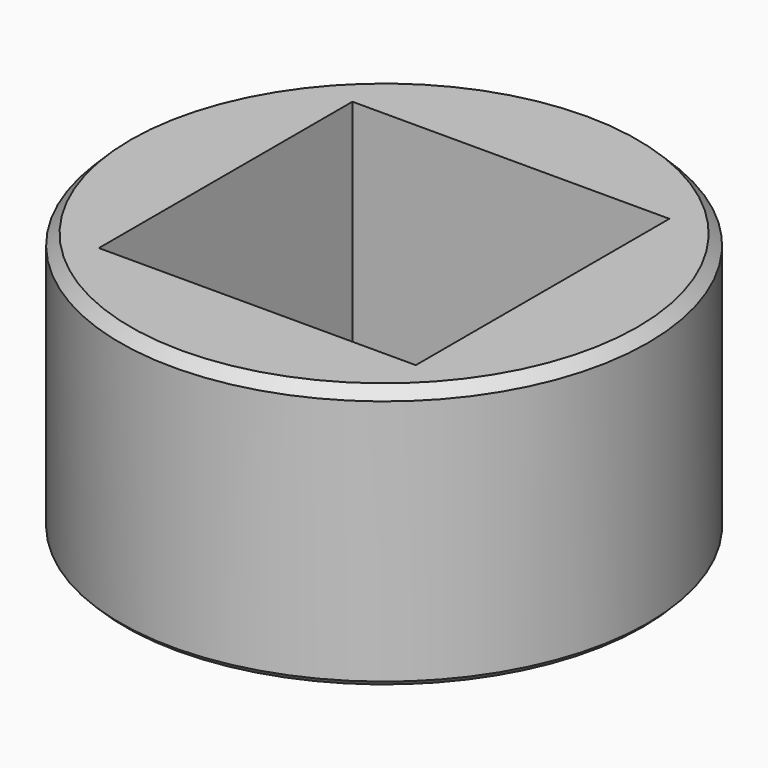
from build123d import *

# Parameters (mm, degrees)
BOX717_W           = 30.2
BOX717_H           = 30.2
BOX717_DEPTH       = 25
CYLINDER1805_R     = 25.15
CYLINDER1805_DEPTH = 25
CHAMFER067_SIZE    = 0.5
CHAMFER066_SIZE    = 1
CHAMFER068_SIZE    = 0.5


with BuildPart() as krychle717:
    # Box717 → Box717 (new body)
    with BuildSketch(Plane(origin=(-15.1, -15.1, 0), x_dir=(1, 0, 0), z_dir=(0, 0, 1))):
        with Locations((15.1, 15.1)):
            Rectangle(BOX717_W, BOX717_H)
    extrude(amount=BOX717_DEPTH)


with BuildPart() as chamfer068:
    # Cylinder1805 → Cylinder1805 (new body)
    with BuildSketch(Plane.XY):
        Circle(CYLINDER1805_R)
    extrude(amount=CYLINDER1805_DEPTH)

    # Cut531: cut Krychle717
    add(krychle717.part, mode=Mode.SUBTRACT)

    # Chamfer067
    chamfer067_edges = [chamfer068.edges().sort_by_distance(p)[0] for p in [
        (0, -15.1, 0),
        (0, 15.1, 0),
    ]]
    chamfer(chamfer067_edges, length=CHAMFER067_SIZE)

    # Chamfer066
    chamfer066_edges = [chamfer068.edges().sort_by_distance(p)[0] for p in [
        (-25.15, 0, 25),
    ]]
    chamfer(chamfer066_edges, length=CHAMFER066_SIZE)

    # Chamfer068
    chamfer068_edges = [chamfer068.edges().sort_by_distance(p)[0] for p in [
        (-25.15, 0, 0),
    ]]
    chamfer(chamfer068_edges, length=CHAMFER068_SIZE)


solid = chamfer068.part
